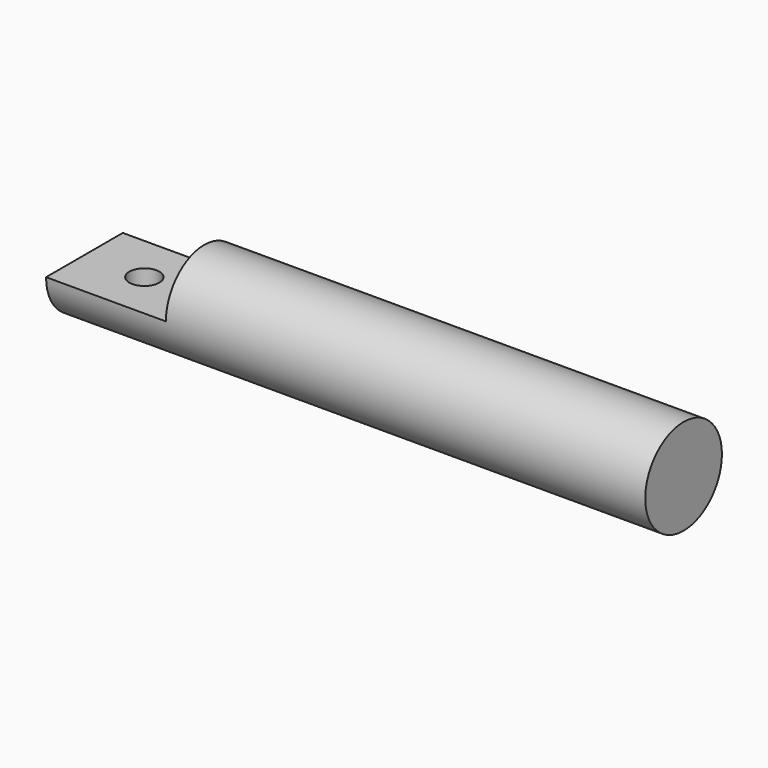
from build123d import *

# Parameters (mm, degrees)
F0_R     = 4
F1_DEPTH = 40
F3_DEPTH = 10
F5_D     = 2.5


with BuildPart() as f1:
    # F0 (on Right) → F1 (new body)
    with BuildSketch(Plane.YZ):
        Circle(F0_R)
    extrude(amount=F1_DEPTH)

    # F2 (on face) → F3 (join)
    with BuildSketch(Plane(origin=(0, 0, 0), x_dir=(0, -1, 0), z_dir=(-1, 0, 0))):
        with BuildLine():
            Line((4, 0), (-4, 0))
            ThreePointArc((-4, 0), (0, -4), (4, 0))
        make_face()
    extrude(amount=F3_DEPTH)

    # F5 (through all)
    with Locations(Plane.XY):
        with Locations((-5, 0)):
            Hole(F5_D / 2)


solid = f1.part
